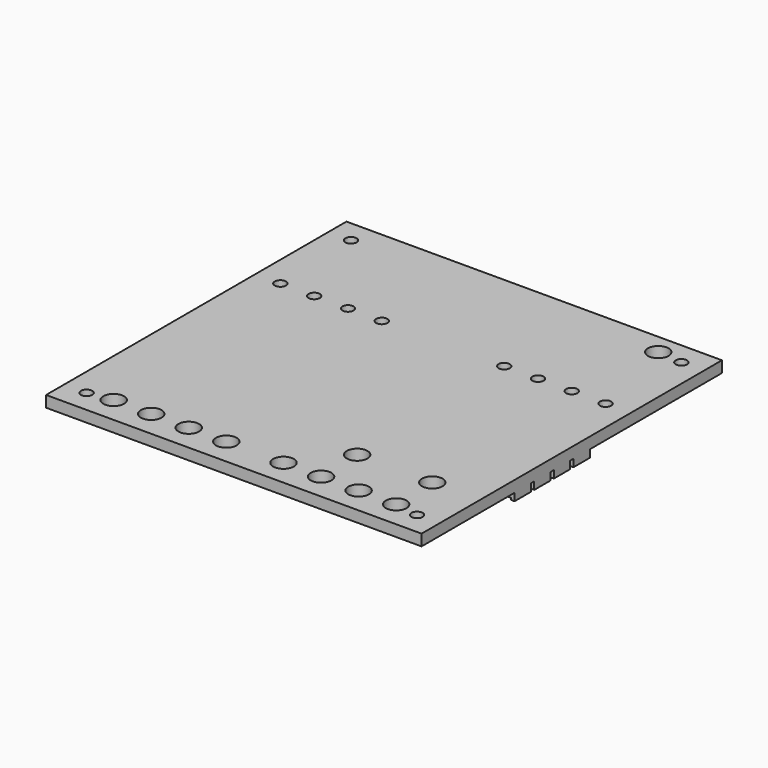
from build123d import *

# Parameters (mm, degrees)
SKETCH_W        = 100
SKETCH_H        = 100
SKETCH_R        = 1.5
SKETCH_R_2      = 2.75
PAD_DEPTH       = 3
SKETCH001_W     = 14
SKETCH001_H     = 9.2
SKETCH001_W_2   = 10.3
SKETCH001_H_2   = 20.6
SKETCH001_W_3   = 36.2
SKETCH001_H_3   = 10.3
POCKET_DEPTH    = 0.5
SKETCH002_W     = 6.3
SKETCH002_H     = 5.4
PAD001_DEPTH    = 2
SKETCH003_W     = 5.3
SKETCH003_H     = 5.4
POCKET001_DEPTH = 0.5


with BuildPart() as part:
    # Sketch → Pad (new body)
    with BuildSketch(Plane.XY):
        Rectangle(SKETCH_W, SKETCH_H)
        with Locations((-44, 44)):
            Circle(SKETCH_R, mode=Mode.SUBTRACT)
        with Locations((44, 44)):
            Circle(SKETCH_R, mode=Mode.SUBTRACT)
        with Locations((44, -44)):
            Circle(SKETCH_R, mode=Mode.SUBTRACT)
        with Locations((-44, -44)):
            Circle(SKETCH_R, mode=Mode.SUBTRACT)
        with Locations((-43.3, 19.64)):
            Circle(SKETCH_R, mode=Mode.SUBTRACT)
        with Locations((-34.3, 19.64)):
            Circle(SKETCH_R, mode=Mode.SUBTRACT)
        with Locations((16.3, 19.64)):
            Circle(SKETCH_R, mode=Mode.SUBTRACT)
        with Locations((25.3, 19.64)):
            Circle(SKETCH_R, mode=Mode.SUBTRACT)
        with Locations((34.3, 19.64)):
            Circle(SKETCH_R, mode=Mode.SUBTRACT)
        with Locations((43.3, 19.64)):
            Circle(SKETCH_R, mode=Mode.SUBTRACT)
        with Locations((-25.3, 19.64)):
            Circle(SKETCH_R, mode=Mode.SUBTRACT)
        with Locations((-16.3, 19.64)):
            Circle(SKETCH_R, mode=Mode.SUBTRACT)
        with Locations((-37.6, -43)):
            Circle(SKETCH_R_2, mode=Mode.SUBTRACT)
        with Locations((-27.6, -43)):
            Circle(SKETCH_R_2, mode=Mode.SUBTRACT)
        with Locations((-17.6, -43)):
            Circle(SKETCH_R_2, mode=Mode.SUBTRACT)
        with Locations((-7.6, -43)):
            Circle(SKETCH_R_2, mode=Mode.SUBTRACT)
        with Locations((7.64, -43)):
            Circle(SKETCH_R_2, mode=Mode.SUBTRACT)
        with Locations((27.64, -43)):
            Circle(SKETCH_R_2, mode=Mode.SUBTRACT)
        with Locations((37.64, -43)):
            Circle(SKETCH_R_2, mode=Mode.SUBTRACT)
        with Locations((17.64, -43)):
            Circle(SKETCH_R_2, mode=Mode.SUBTRACT)
        with Locations((37.36, 44.6)):
            Circle(SKETCH_R_2, mode=Mode.SUBTRACT)
        with Locations((37.34, -30.60363)):
            Circle(SKETCH_R_2, mode=Mode.SUBTRACT)
        with Locations((17.34, -30.60363)):
            Circle(SKETCH_R_2, mode=Mode.SUBTRACT)
    extrude(amount=PAD_DEPTH)

    # Sketch001 (on Face28 of Pad) → Pocket (cut)
    with BuildSketch(Plane(origin=(0, 0, 0), x_dir=(1, 0, 0), z_dir=(0, 0, -1))):
        with Locations((-42.6, 30.5)):
            Rectangle(SKETCH001_W, SKETCH001_H)
        with Locations((-11.35, 26.87)):
            Rectangle(SKETCH001_W_2, SKETCH001_H_2)
        with Locations((7.33, 26.87)):
            Rectangle(SKETCH001_W_2, SKETCH001_H_2)
        with Locations((27.33, 26.87)):
            Rectangle(SKETCH001_W_2, SKETCH001_H_2)
        with Locations((-25.9, 5)):
            Rectangle(SKETCH001_W_3, SKETCH001_H_3)
    extrude(amount=-POCKET_DEPTH, mode=Mode.SUBTRACT)

    # Sketch002 (on Face4 of Pocket) → Pad001 (join)
    with BuildSketch(Plane(origin=(0, 0, 0), x_dir=(1, 0, 0), z_dir=(0, 0, -1))):
        with Locations((46.85, -3.3)):
            Rectangle(SKETCH002_W, SKETCH002_H)
        with Locations((46.85, 3.24)):
            Rectangle(SKETCH002_W, SKETCH002_H)
        with Locations((46.85, 9.78)):
            Rectangle(SKETCH002_W, SKETCH002_H)
        with Locations((46.85, 16.32)):
            Rectangle(SKETCH002_W, SKETCH002_H)
    extrude(amount=PAD001_DEPTH)

    # Sketch003 (on Face61 of Pad001) → Pocket001 (cut)
    with BuildSketch(Plane(origin=(0, 0, -2), x_dir=(1, 0, 0), z_dir=(0, 0, -1))):
        with Locations((46.35, -3.3)):
            Rectangle(SKETCH003_W, SKETCH003_H)
        with Locations((46.35, 3.24)):
            Rectangle(SKETCH003_W, SKETCH003_H)
        with Locations((46.35, 9.78)):
            Rectangle(SKETCH003_W, SKETCH003_H)
        with Locations((46.35, 16.32)):
            Rectangle(SKETCH003_W, SKETCH003_H)
    extrude(amount=-POCKET001_DEPTH, mode=Mode.SUBTRACT)


solid = part.part
